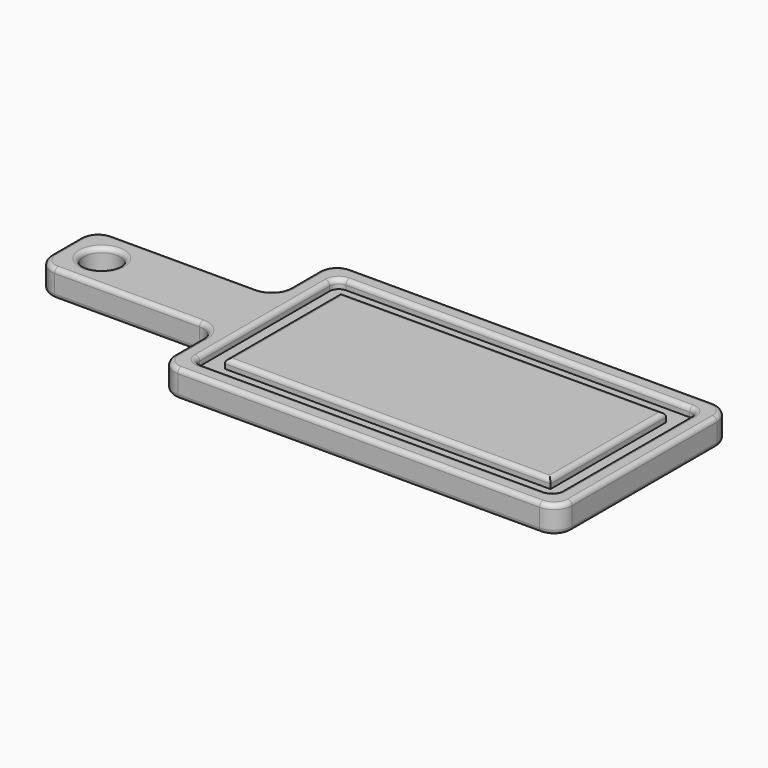
from build123d import *

# Parameters (mm, degrees)
F0_W     = 127
F0_H     = 50.8
F1_DEPTH = 19.05
F2_R     = 12.7
F3_DEPTH = 25.4
F5_DEPTH = 6.35
F6_R     = 6.35
F7_R     = 12.7
F8_R     = 3.175


with BuildPart() as f1:
    # F0 (on Top) → F1 (new body)
    with BuildSketch(Plane.XY):
        Polygon((0, 50.8), (0, 0), (279.4, 0), (279.4, 152.4), (0, 152.4), (0, 101.6), align=None)
        with Locations((-63.5, 76.2)):
            Rectangle(F0_W, F0_H)
    extrude(amount=F1_DEPTH)

    # F2 (on face) → F3 (cut)
    with BuildSketch(Plane.XY.offset(19.05)):
        with Locations((-101.6, 76.2)):
            Circle(F2_R)
    extrude(amount=-F3_DEPTH, mode=Mode.SUBTRACT)

    # F4 (on face) → F5 (cut)
    with BuildSketch(Plane.XY.offset(19.05)):
        Polygon((12.7000044823, 50.8), (12.7000044823, 12.7000044823), (266.6999955177, 12.7000044823), (266.6999955177, 139.6999955177), (12.7000044823, 139.6999955177), (12.7000044823, 101.6), align=None)
        Polygon((25.400010848, 50.8), (25.400010848, 101.6), (25.400010848, 126.999989152), (253.999989152, 126.999989152), (253.999989152, 25.400010848), (25.400010848, 25.400010848), align=None, mode=Mode.SUBTRACT)
    extrude(amount=-F5_DEPTH, mode=Mode.SUBTRACT)

    # F6
    f6_edges = [f1.edges().sort_by_distance(p)[0] for p in [
        (12.700004, 139.699996, 15.875),
        (12.700004, 12.700004, 15.875),
        (266.699996, 139.699996, 15.875),
        (266.699996, 12.700004, 15.875),
    ]]
    fillet(f6_edges, radius=F6_R)

    # F7
    f7_edges = [f1.edges().sort_by_distance(p)[0] for p in [
        (-127, 50.8, 9.525),
        (0, 0, 9.525),
        (-127, 101.6, 9.525),
        (0, 152.4, 9.525),
        (0, 101.6, 9.525),
        (0, 50.8, 9.525),
        (279.4, 0, 9.525),
        (279.4, 152.4, 9.525),
    ]]
    fillet(f7_edges, radius=F7_R)

    # F8
    f8_edges = [f1.edges().sort_by_distance(p)[0] for p in [
        (139.7, 126.999989, 19.05),
        (253.999989, 76.2, 19.05),
        (139.7, 25.400011, 19.05),
        (25.400011, 76.2, 19.05),
        (0, 25.4, 19.05),
        (-3.719744, 47.080256, 19.05),
        (3.719744, 3.719744, 19.05),
        (-63.5, 50.8, 19.05),
        (139.7, 0, 19.05),
        (-123.280256, 54.519744, 19.05),
        (275.680256, 3.719744, 19.05),
        (-127, 76.2, 19.05),
        (279.4, 76.2, 19.05),
        (-123.280256, 97.880256, 19.05),
        (275.680256, 148.680256, 19.05),
        (-63.5, 101.6, 19.05),
        (139.7, 152.4, 19.05),
        (-3.719744, 105.319744, 19.05),
        (3.719744, 148.680256, 19.05),
        (0, 127, 19.05),
        (139.7, 12.700004, 19.05),
        (14.559876, 14.559876, 19.05),
        (264.840124, 14.559876, 19.05),
        (12.700004, 76.2, 19.05),
        (266.699996, 76.2, 19.05),
        (14.559876, 137.840124, 19.05),
        (264.840124, 137.840124, 19.05),
        (139.7, 139.699996, 19.05),
        (-114.3, 76.2, 19.05),
        (0, 25.4, 0),
        (-3.719744, 47.080256, 0),
        (3.719744, 3.719744, 0),
        (-63.5, 50.8, 0),
        (139.7, 0, 0),
        (-123.280256, 54.519744, 0),
        (275.680256, 3.719744, 0),
        (-127, 76.2, 0),
        (279.4, 76.2, 0),
        (-123.280256, 97.880256, 0),
        (275.680256, 148.680256, 0),
        (-63.5, 101.6, 0),
        (139.7, 152.4, 0),
        (-3.719744, 105.319744, 0),
        (3.719744, 148.680256, 0),
        (0, 127, 0),
        (-114.3, 76.2, 0),
    ]]
    fillet(f8_edges, radius=F8_R)


solid = f1.part
